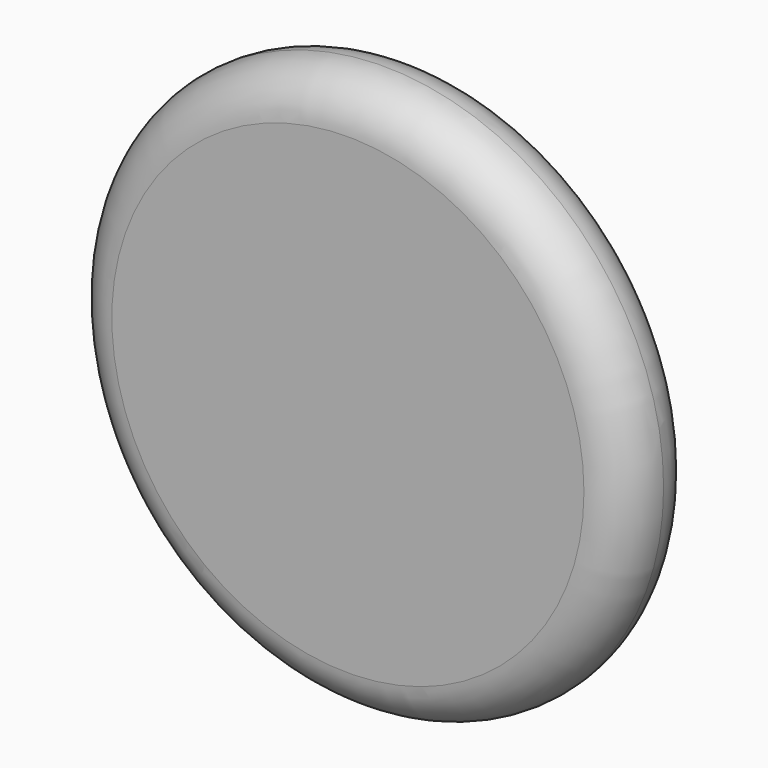
from build123d import *


with BuildPart() as f1:
    # F0 (on Top) → F1 (revolve)
    with BuildSketch(Plane.XY):
        with BuildLine():
            ThreePointArc((32.5194592859, -6.2665256992), (26.5829759643, -1.3485391673), (29.9038922638, 5.6084674223))
            ThreePointArc((29.9038922638, 5.6084674223), (15.0090915227, 2.4995391342), (0, 0))
            Line((0, 0), (0, -6.2665256992))
            Line((0, -6.2665256992), (32.5194592859, -6.2665256992))
        make_face()
        with BuildLine():
            ThreePointArc((32.8915570591, -6.2665256992), (37.2038607809, -4.366781691), (38.9747950958, 0))
            ThreePointArc((38.9747950958, 0), (37.1456930099, 4.4259142713), (32.7256897745, 6.2692544397))
            ThreePointArc((32.7256897745, 6.2692544397), (31.3154320866, 5.9361233432), (29.9038922638, 5.6084674223))
            ThreePointArc((29.9038922638, 5.6084674223), (26.5829759643, -1.3485391673), (32.5194592859, -6.2665256992))
            Line((32.5194592859, -6.2665256992), (32.8915570591, -6.2665256992))
        make_face()
    revolve(axis=Axis((0, -3.1332628496, 0), (0, 1, 0)))


solid = f1.part
